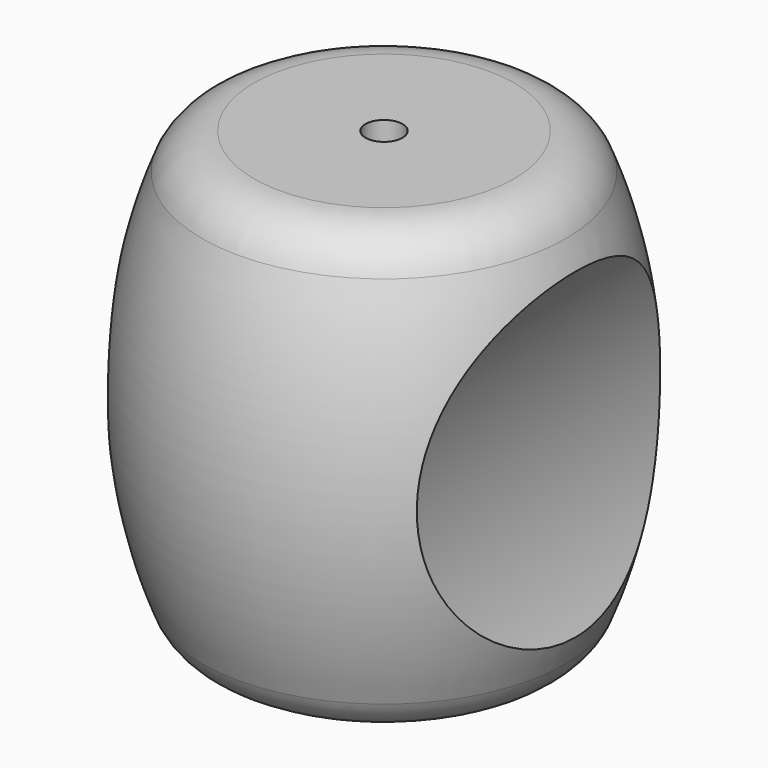
from build123d import *

# Parameters (mm, degrees)
F3_DEPTH      = 3
F3_DEPTH_BACK = 3


with BuildPart() as f1:
    # F0 (on Front) → F1 (revolve)
    with BuildSketch(Plane.XZ):
        with BuildLine():
            Line((0.25, 6), (0.25, 0))
            Line((0.25, 0), (1.75, 0))
            ThreePointArc((1.75, 0), (2.174264, 0.131534), (2.449714, 0.48))
            ThreePointArc((2.449714, 0.48), (2.919048, 3), (2.449714, 5.52))
            ThreePointArc((2.449714, 5.52), (2.174264, 5.868466), (1.75, 6))
            Line((1.75, 6), (0.25, 6))
        make_face()
    revolve(axis=Axis((0, 0, 4.403635), (0, 0, 1)))


with BuildPart() as f3:
    # F2 (on Front) → F3 (new body, two sides)
    with BuildSketch(Plane.XZ) as f3_sk:
        with BuildLine():
            Line((3.75, 5.5), (2.75, 5.5))
            ThreePointArc((2.75, 5.5), (2.080127, 3), (2.75, 0.5))
            Line((2.75, 0.5), (3.75, 0.5))
            Line((3.75, 0.5), (3.75, 5.5))
        make_face()
    extrude(amount=F3_DEPTH)
    extrude(f3_sk.sketch, amount=-F3_DEPTH_BACK)


with BuildPart() as f4_1:
    # F4: instance of F3
    add(f3.part.mirror(Plane.YZ))


with BuildPart() as f1_1:
    add(f1.part)

    # F5: cut F3, F4_1
    add(f3.part, mode=Mode.SUBTRACT)
    add(f4_1.part, mode=Mode.SUBTRACT)


solid = f1_1.part
